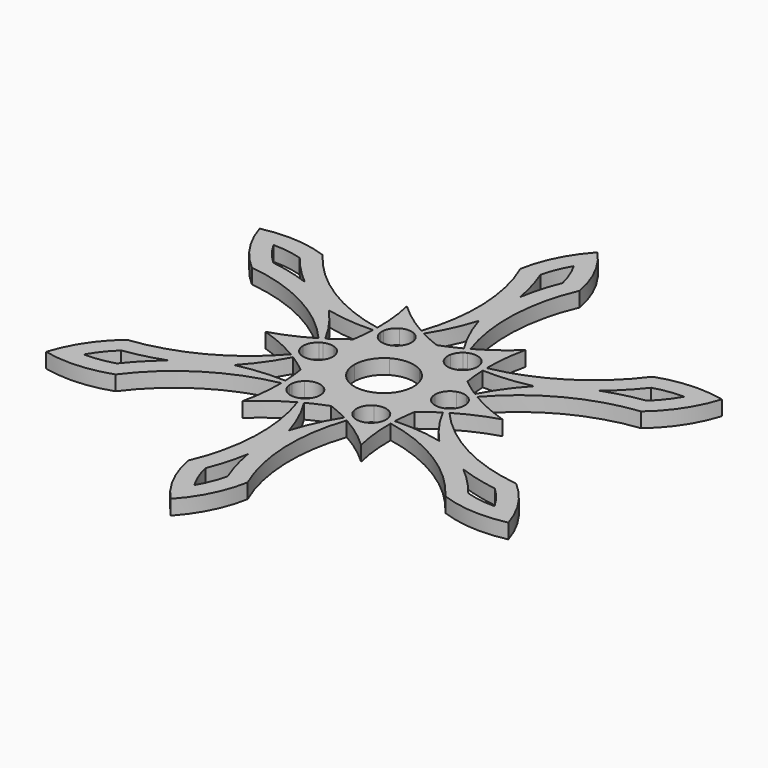
from build123d import *

# Parameters (mm, degrees)
F1_DEPTH = 3.175
F3_DEPTH = 3.175


with BuildPart() as f1:
    # F0 (on Top) → F1 (new body)
    with BuildSketch(Plane.XY):
        with BuildLine():
            ThreePointArc((-10.2140649004, 12.5831196538), (-9.715180625, 13.9663060969), (-8.646626422, 14.976396277))
            Line((-8.646626422, 14.976396277), (-12.7, 21.9970452561))
            ThreePointArc((-12.7, 21.9970452561), (-11.9265021264, 17.4508316529), (-11.7079259827, 12.8444684935))
            ThreePointArc((-11.7079259827, 12.8444684935), (-10.9622777482, 12.7064644527), (-10.2140649004, 12.5831196538))
        make_face()
        with BuildLine():
            Line((-12.7, 21.9970452561), (-8.646626422, 14.976396277))
            ThreePointArc((-8.646626422, 14.976396277), (-7.2375855644, 15.396746272), (-5.7902688288, 15.1371995066))
            ThreePointArc((-5.7902688288, 15.1371995066), (-5.5229821342, 15.8468432396), (-5.2696730221, 16.5615955734))
            ThreePointArc((-5.2696730221, 16.5615955734), (-9.1496124654, 19.0540696462), (-12.7, 21.9970452561))
        make_face()
        with BuildLine():
            ThreePointArc((-5.7902688288, 15.1371995066), (-5.4557175378, 14.967149708), (-5.1435682816, 14.7588126201))
            ThreePointArc((-5.1435682816, 14.7588126201), (-4.7136685053, 15.3927108565), (-4.2965982177, 16.035122848))
            ThreePointArc((-4.2965982177, 16.035122848), (-4.7850467183, 16.2948269447), (-5.2696730221, 16.5615955734))
            ThreePointArc((-5.2696730221, 16.5615955734), (-5.5229821342, 15.8468432396), (-5.7902688288, 15.1371995066))
        make_face()
        with BuildLine():
            ThreePointArc((-11.7385246304, 11.7385246304), (-10.9736443821, 11.7785120988), (-10.2097225179, 11.833867108))
            ThreePointArc((-10.2097225179, 11.833867108), (-10.2340731005, 12.2083648376), (-10.2140649004, 12.5831196538))
            ThreePointArc((-10.2140649004, 12.5831196538), (-10.9622777482, 12.7064644527), (-11.7079259827, 12.8444684935))
            ThreePointArc((-11.7079259827, 12.8444684935), (-11.7192107253, 12.2913854887), (-11.7385246304, 11.7385246304))
        make_face()
        with BuildLine():
            ThreePointArc((5.7902688288, 15.1371995066), (7.2375855644, 15.396746272), (8.646626422, 14.976396277))
            Line((8.646626422, 14.976396277), (12.7, 21.9970452561))
            ThreePointArc((12.7, 21.9970452561), (9.1496124654, 19.0540696462), (5.2696730221, 16.5615955734))
            ThreePointArc((5.2696730221, 16.5615955734), (5.5229821342, 15.8468432396), (5.7902688288, 15.1371995066))
        make_face()
        with BuildLine():
            Line((12.7, 21.9970452561), (8.646626422, 14.976396277))
            ThreePointArc((8.646626422, 14.976396277), (9.715180625, 13.9663060969), (10.2140649004, 12.5831196538))
            ThreePointArc((10.2140649004, 12.5831196538), (10.9622777482, 12.7064644527), (11.7079259827, 12.8444684935))
            ThreePointArc((11.7079259827, 12.8444684935), (11.9265021264, 17.4508316529), (12.7, 21.9970452561))
        make_face()
        with BuildLine():
            ThreePointArc((4.2965982177, 16.035122848), (4.7136685053, 15.3927108565), (5.1435682816, 14.7588126201))
            ThreePointArc((5.1435682816, 14.7588126201), (5.4557175378, 14.967149708), (5.7902688288, 15.1371995066))
            ThreePointArc((5.7902688288, 15.1371995066), (5.5229821342, 15.8468432396), (5.2696730221, 16.5615955734))
            ThreePointArc((5.2696730221, 16.5615955734), (4.7850467183, 16.2948269447), (4.2965982177, 16.035122848))
        make_face()
        with BuildLine():
            ThreePointArc((10.2140649004, 12.5831196538), (10.2340731005, 12.2083648376), (10.2097225179, 11.833867108))
            ThreePointArc((10.2097225179, 11.833867108), (10.9736443821, 11.7785120988), (11.7385246304, 11.7385246304))
            ThreePointArc((11.7385246304, 11.7385246304), (11.7192107253, 12.2913854887), (11.7079259827, 12.8444684935))
            ThreePointArc((11.7079259827, 12.8444684935), (10.9622777482, 12.7064644527), (10.2140649004, 12.5831196538))
        make_face()
        with BuildLine():
            ThreePointArc((-16.0043337292, -2.5540798528), (-16.9527661894, -1.4304401752), (-17.293252844, 0))
            Line((-17.293252844, 0), (-25.4, 0))
            ThreePointArc((-25.4, 0), (-21.0761145918, -1.6032379933), (-16.9775990048, -3.7171270799))
            ThreePointArc((-16.9775990048, -3.7171270799), (-16.4852598824, -3.1403787869), (-16.0043337292, -2.5540798528))
        make_face()
        with BuildLine():
            Line((-25.4, 0), (-17.293252844, 0))
            ThreePointArc((-17.293252844, 0), (-16.9527661894, 1.4304401752), (-16.0043337292, 2.5540798528))
            ThreePointArc((-16.0043337292, 2.5540798528), (-16.4852598824, 3.1403787869), (-16.9775990048, 3.7171270799))
            ThreePointArc((-16.9775990048, 3.7171270799), (-21.0761145918, 1.6032379933), (-25.4, 0))
        make_face()
        with BuildLine():
            ThreePointArc((-16.0043337292, 2.5540798528), (-15.6897906383, 2.7587848704), (-15.3532907995, 2.9249455121))
            ThreePointArc((-15.3532907995, 2.9249455121), (-15.6873128875, 3.6141987576), (-16.035122848, 4.2965982177))
            ThreePointArc((-16.035122848, 4.2965982177), (-16.5042574436, 4.003441456), (-16.9775990048, 3.7171270799))
            ThreePointArc((-16.9775990048, 3.7171270799), (-16.4852598824, 3.1403787869), (-16.0043337292, 2.5540798528))
        make_face()
        with BuildLine():
            ThreePointArc((-16.035122848, -4.2965982177), (-15.6873128875, -3.6141987576), (-15.3532907995, -2.9249455121))
            ThreePointArc((-15.3532907995, -2.9249455121), (-15.6897906383, -2.7587848704), (-16.0043337292, -2.5540798528))
            ThreePointArc((-16.0043337292, -2.5540798528), (-16.4852598824, -3.1403787869), (-16.9775990048, -3.7171270799))
            ThreePointArc((-16.9775990048, -3.7171270799), (-16.5042574436, -4.003441456), (-16.035122848, -4.2965982177))
        make_face()
        with BuildLine():
            ThreePointArc((-5.7902688288, -15.1371995066), (-7.2375855644, -15.396746272), (-8.646626422, -14.976396277))
            Line((-8.646626422, -14.976396277), (-12.7, -21.9970452561))
            ThreePointArc((-12.7, -21.9970452561), (-9.1496124654, -19.0540696462), (-5.2696730221, -16.5615955734))
            ThreePointArc((-5.2696730221, -16.5615955734), (-5.5229821342, -15.8468432396), (-5.7902688288, -15.1371995066))
        make_face()
        with BuildLine():
            Line((-12.7, -21.9970452561), (-8.646626422, -14.976396277))
            ThreePointArc((-8.646626422, -14.976396277), (-9.715180625, -13.9663060969), (-10.2140649004, -12.5831196538))
            ThreePointArc((-10.2140649004, -12.5831196538), (-10.9622777482, -12.7064644527), (-11.7079259827, -12.8444684935))
            ThreePointArc((-11.7079259827, -12.8444684935), (-11.9265021264, -17.4508316529), (-12.7, -21.9970452561))
        make_face()
        with BuildLine():
            ThreePointArc((-10.2140649004, -12.5831196538), (-10.2340731005, -12.2083648376), (-10.2097225179, -11.833867108))
            ThreePointArc((-10.2097225179, -11.833867108), (-10.9736443821, -11.7785120988), (-11.7385246304, -11.7385246304))
            ThreePointArc((-11.7385246304, -11.7385246304), (-11.7192107253, -12.2913854887), (-11.7079259827, -12.8444684935))
            ThreePointArc((-11.7079259827, -12.8444684935), (-10.9622777482, -12.7064644527), (-10.2140649004, -12.5831196538))
        make_face()
        with BuildLine():
            ThreePointArc((-4.2965982177, -16.035122848), (-4.7136685053, -15.3927108565), (-5.1435682816, -14.7588126201))
            ThreePointArc((-5.1435682816, -14.7588126201), (-5.4557175378, -14.967149708), (-5.7902688288, -15.1371995066))
            ThreePointArc((-5.7902688288, -15.1371995066), (-5.5229821342, -15.8468432396), (-5.2696730221, -16.5615955734))
            ThreePointArc((-5.2696730221, -16.5615955734), (-4.7850467183, -16.2948269447), (-4.2965982177, -16.035122848))
        make_face()
        with BuildLine():
            ThreePointArc((10.2140649004, -12.5831196538), (9.715180625, -13.9663060969), (8.646626422, -14.976396277))
            Line((8.646626422, -14.976396277), (12.7, -21.9970452561))
            ThreePointArc((12.7, -21.9970452561), (11.9265021264, -17.4508316529), (11.7079259827, -12.8444684935))
            ThreePointArc((11.7079259827, -12.8444684935), (10.9622777482, -12.7064644527), (10.2140649004, -12.5831196538))
        make_face()
        with BuildLine():
            Line((12.7, -21.9970452561), (8.646626422, -14.976396277))
            ThreePointArc((8.646626422, -14.976396277), (7.2375855644, -15.396746272), (5.7902688288, -15.1371995066))
            ThreePointArc((5.7902688288, -15.1371995066), (5.5229821342, -15.8468432396), (5.2696730221, -16.5615955734))
            ThreePointArc((5.2696730221, -16.5615955734), (9.1496124654, -19.0540696462), (12.7, -21.9970452561))
        make_face()
        with BuildLine():
            ThreePointArc((5.7902688288, -15.1371995066), (5.4557175378, -14.967149708), (5.1435682816, -14.7588126201))
            ThreePointArc((5.1435682816, -14.7588126201), (4.7136685053, -15.3927108565), (4.2965982177, -16.035122848))
            ThreePointArc((4.2965982177, -16.035122848), (4.7850467183, -16.2948269447), (5.2696730221, -16.5615955734))
            ThreePointArc((5.2696730221, -16.5615955734), (5.5229821342, -15.8468432396), (5.7902688288, -15.1371995066))
        make_face()
        with BuildLine():
            ThreePointArc((11.7385246304, -11.7385246304), (10.9736443821, -11.7785120988), (10.2097225179, -11.833867108))
            ThreePointArc((10.2097225179, -11.833867108), (10.2340731005, -12.2083648376), (10.2140649004, -12.5831196538))
            ThreePointArc((10.2140649004, -12.5831196538), (10.9622777482, -12.7064644527), (11.7079259827, -12.8444684935))
            ThreePointArc((11.7079259827, -12.8444684935), (11.7192107253, -12.2913854887), (11.7385246304, -11.7385246304))
        make_face()
        with BuildLine():
            ThreePointArc((16.0043337292, 2.5540798528), (16.9527661894, 1.4304401752), (17.293252844, 0))
            Line((17.293252844, 0), (25.4, 0))
            ThreePointArc((25.4, 0), (21.0761145918, 1.6032379933), (16.9775990048, 3.7171270799))
            ThreePointArc((16.9775990048, 3.7171270799), (16.4852598824, 3.1403787869), (16.0043337292, 2.5540798528))
        make_face()
        with BuildLine():
            Line((25.4, 0), (17.293252844, 0))
            ThreePointArc((17.293252844, 0), (16.9527661894, -1.4304401752), (16.0043337292, -2.5540798528))
            ThreePointArc((16.0043337292, -2.5540798528), (16.4852598824, -3.1403787869), (16.9775990048, -3.7171270799))
            ThreePointArc((16.9775990048, -3.7171270799), (21.0761145918, -1.6032379933), (25.4, 0))
        make_face()
        with BuildLine():
            ThreePointArc((16.0043337292, -2.5540798528), (15.6897906383, -2.7587848704), (15.3532907995, -2.9249455121))
            ThreePointArc((15.3532907995, -2.9249455121), (15.6873128875, -3.6141987576), (16.035122848, -4.2965982177))
            ThreePointArc((16.035122848, -4.2965982177), (16.5042574436, -4.003441456), (16.9775990048, -3.7171270799))
            ThreePointArc((16.9775990048, -3.7171270799), (16.4852598824, -3.1403787869), (16.0043337292, -2.5540798528))
        make_face()
        with BuildLine():
            ThreePointArc((16.035122848, 4.2965982177), (15.6873128875, 3.6141987576), (15.3532907995, 2.9249455121))
            ThreePointArc((15.3532907995, 2.9249455121), (15.6897906383, 2.7587848704), (16.0043337292, 2.5540798528))
            ThreePointArc((16.0043337292, 2.5540798528), (16.4852598824, 3.1403787869), (16.9775990048, 3.7171270799))
            ThreePointArc((16.9775990048, 3.7171270799), (16.5042574436, 4.003441456), (16.035122848, 4.2965982177))
        make_face()
        with BuildLine():
            ThreePointArc((-5.2696730221, 16.5615955734), (-4.7850467183, 16.2948269447), (-4.2965982177, 16.035122848))
            ThreePointArc((-4.2965982177, 16.035122848), (-1.8302678097, 20.5716489159), (0, 25.4))
            ThreePointArc((0, 25.4), (1.8302678097, 20.5716489159), (4.2965982177, 16.035122848))
            ThreePointArc((4.2965982177, 16.035122848), (4.7850467183, 16.2948269447), (5.2696730221, 16.5615955734))
            ThreePointArc((5.2696730221, 16.5615955734), (3.2039588931, 30.6067429626), (6.35, 44.45))
            Line((6.35, 44.45), (0, 44.45))
            Line((0, 44.45), (-6.35, 44.45))
            ThreePointArc((-6.35, 44.45), (-3.2039588931, 30.6067429626), (-5.2696730221, 16.5615955734))
        make_face()
        with BuildLine():
            ThreePointArc((-21.9970452561, 12.7), (-16.9004366541, 11.8708828769), (-11.7385246304, 11.7385246304))
            ThreePointArc((-11.7385246304, 11.7385246304), (-11.7192107253, 12.2913854887), (-11.7079259827, 12.8444684935))
            ThreePointArc((-11.7079259827, 12.8444684935), (-24.9042374862, 18.0780812755), (-35.3198291982, 27.724261314))
            Line((-35.3198291982, 27.724261314), (-38.4948291982, 22.225))
            Line((-38.4948291982, 22.225), (-41.6698291982, 16.725738686))
            ThreePointArc((-41.6698291982, 16.725738686), (-28.1081963793, 12.5286616872), (-16.9775990048, 3.7171270799))
            ThreePointArc((-16.9775990048, 3.7171270799), (-16.5042574436, 4.003441456), (-16.035122848, 4.2965982177))
            ThreePointArc((-16.035122848, 4.2965982177), (-18.7307044638, 8.700766039), (-21.9970452561, 12.7))
        make_face()
        with BuildLine():
            ThreePointArc((11.7079259827, 12.8444684935), (11.7192107253, 12.2913854887), (11.7385246304, 11.7385246304))
            ThreePointArc((11.7385246304, 11.7385246304), (16.9004366541, 11.8708828769), (21.9970452561, 12.7))
            ThreePointArc((21.9970452561, 12.7), (18.7307044638, 8.700766039), (16.035122848, 4.2965982177))
            ThreePointArc((16.035122848, 4.2965982177), (16.5042574436, 4.003441456), (16.9775990048, 3.7171270799))
            ThreePointArc((16.9775990048, 3.7171270799), (28.1081963793, 12.5286616872), (41.6698291982, 16.725738686))
            Line((41.6698291982, 16.725738686), (38.4948291982, 22.225))
            Line((38.4948291982, 22.225), (35.3198291982, 27.724261314))
            ThreePointArc((35.3198291982, 27.724261314), (24.9042374862, 18.0780812755), (11.7079259827, 12.8444684935))
        make_face()
        with BuildLine():
            ThreePointArc((-11.7079259827, -12.8444684935), (-11.7192107253, -12.2913854887), (-11.7385246304, -11.7385246304))
            ThreePointArc((-11.7385246304, -11.7385246304), (-16.9004366541, -11.8708828769), (-21.9970452561, -12.7))
            ThreePointArc((-21.9970452561, -12.7), (-18.7307044638, -8.700766039), (-16.035122848, -4.2965982177))
            ThreePointArc((-16.035122848, -4.2965982177), (-16.5042574436, -4.003441456), (-16.9775990048, -3.7171270799))
            ThreePointArc((-16.9775990048, -3.7171270799), (-28.1081963793, -12.5286616872), (-41.6698291982, -16.725738686))
            Line((-41.6698291982, -16.725738686), (-38.4948291982, -22.225))
            Line((-38.4948291982, -22.225), (-35.3198291982, -27.724261314))
            ThreePointArc((-35.3198291982, -27.724261314), (-24.9042374862, -18.0780812755), (-11.7079259827, -12.8444684935))
        make_face()
        with BuildLine():
            ThreePointArc((5.2696730221, -16.5615955734), (4.7850467183, -16.2948269447), (4.2965982177, -16.035122848))
            ThreePointArc((4.2965982177, -16.035122848), (1.8302678097, -20.5716489159), (0, -25.4))
            ThreePointArc((0, -25.4), (-1.8302678097, -20.5716489159), (-4.2965982177, -16.035122848))
            ThreePointArc((-4.2965982177, -16.035122848), (-4.7850467183, -16.2948269447), (-5.2696730221, -16.5615955734))
            ThreePointArc((-5.2696730221, -16.5615955734), (-3.2039588931, -30.6067429626), (-6.35, -44.45))
            Line((-6.35, -44.45), (0, -44.45))
            Line((0, -44.45), (6.35, -44.45))
            ThreePointArc((6.35, -44.45), (3.2039588931, -30.6067429626), (5.2696730221, -16.5615955734))
        make_face()
        with BuildLine():
            ThreePointArc((16.9775990048, -3.7171270799), (16.5042574436, -4.003441456), (16.035122848, -4.2965982177))
            ThreePointArc((16.035122848, -4.2965982177), (18.7307044638, -8.700766039), (21.9970452561, -12.7))
            ThreePointArc((21.9970452561, -12.7), (16.9004366541, -11.8708828769), (11.7385246304, -11.7385246304))
            ThreePointArc((11.7385246304, -11.7385246304), (11.7192107253, -12.2913854887), (11.7079259827, -12.8444684935))
            ThreePointArc((11.7079259827, -12.8444684935), (24.9042374862, -18.0780812755), (35.3198291982, -27.724261314))
            Line((35.3198291982, -27.724261314), (38.4948291982, -22.225))
            Line((38.4948291982, -22.225), (41.6698291982, -16.725738686))
            ThreePointArc((41.6698291982, -16.725738686), (28.1081963793, -12.5286616872), (16.9775990048, -3.7171270799))
        make_face()
        with BuildLine():
            Line((-38.4948291982, 22.225), (-35.3198291982, 27.724261314))
            ThreePointArc((-35.3198291982, 27.724261314), (-42.3459345639, 29.1601741653), (-49.4933518263, 28.575))
            Line((-49.4933518263, 28.575), (-38.4948291982, 22.225))
        make_face()
        with BuildLine():
            ThreePointArc((0, 57.15), (-4.080484324, 51.252742162), (-6.35, 44.45))
            Line((-6.35, 44.45), (0, 44.45))
            Line((0, 44.45), (0, 57.15))
        make_face()
        with BuildLine():
            Line((0, 44.45), (6.35, 44.45))
            ThreePointArc((6.35, 44.45), (4.080484324, 51.252742162), (0, 57.15))
            Line((0, 57.15), (0, 44.45))
        make_face()
        with BuildLine():
            ThreePointArc((-49.4933518263, 28.575), (-46.4264188879, 22.0925679967), (-41.6698291982, 16.725738686))
            Line((-41.6698291982, 16.725738686), (-38.4948291982, 22.225))
            Line((-38.4948291982, 22.225), (-49.4933518263, 28.575))
        make_face()
        with BuildLine():
            ThreePointArc((49.4933518263, 28.575), (42.3459345639, 29.1601741653), (35.3198291982, 27.724261314))
            Line((35.3198291982, 27.724261314), (38.4948291982, 22.225))
            Line((38.4948291982, 22.225), (49.4933518263, 28.575))
        make_face()
        with BuildLine():
            Line((38.4948291982, 22.225), (41.6698291982, 16.725738686))
            ThreePointArc((41.6698291982, 16.725738686), (46.4264188879, 22.0925679967), (49.4933518263, 28.575))
            Line((49.4933518263, 28.575), (38.4948291982, 22.225))
        make_face()
        with BuildLine():
            Line((-38.4948291982, -22.225), (-41.6698291982, -16.725738686))
            ThreePointArc((-41.6698291982, -16.725738686), (-46.4264188879, -22.0925679967), (-49.4933518263, -28.575))
            Line((-49.4933518263, -28.575), (-38.4948291982, -22.225))
        make_face()
        with BuildLine():
            ThreePointArc((-49.4933518263, -28.575), (-42.3459345639, -29.1601741653), (-35.3198291982, -27.724261314))
            Line((-35.3198291982, -27.724261314), (-38.4948291982, -22.225))
            Line((-38.4948291982, -22.225), (-49.4933518263, -28.575))
        make_face()
        with BuildLine():
            Line((0, -44.45), (-6.35, -44.45))
            ThreePointArc((-6.35, -44.45), (-4.080484324, -51.252742162), (0, -57.15))
            Line((0, -57.15), (0, -44.45))
        make_face()
        with BuildLine():
            ThreePointArc((0, -57.15), (4.080484324, -51.252742162), (6.35, -44.45))
            Line((6.35, -44.45), (0, -44.45))
            Line((0, -44.45), (0, -57.15))
        make_face()
        with BuildLine():
            Line((38.4948291982, -22.225), (35.3198291982, -27.724261314))
            ThreePointArc((35.3198291982, -27.724261314), (42.3459345639, -29.1601741653), (49.4933518263, -28.575))
            Line((49.4933518263, -28.575), (38.4948291982, -22.225))
        make_face()
        with BuildLine():
            ThreePointArc((49.4933518263, -28.575), (46.4264188879, -22.0925679967), (41.6698291982, -16.725738686))
            Line((41.6698291982, -16.725738686), (38.4948291982, -22.225))
            Line((38.4948291982, -22.225), (49.4933518263, -28.575))
        make_face()
        with BuildLine():
            ThreePointArc((-10.2097225179, -11.833867108), (-9.8725150433, -10.7552122008), (-9.1788539928, -9.863001667))
            ThreePointArc((-9.1788539928, -9.863001667), (-10.6646843006, -8.4196202704), (-12.22676562, -7.059126422))
            ThreePointArc((-12.22676562, -7.059126422), (-11.9103463833, -9.3912819901), (-11.7385246304, -11.7385246304))
            ThreePointArc((-11.7385246304, -11.7385246304), (-10.9736443821, -11.7785120988), (-10.2097225179, -11.833867108))
        make_face()
        with BuildLine():
            ThreePointArc((-12.22676562, -7.059126422), (-12.6239471947, -5.0260773925), (-13.1310369976, -3.0176199019))
            ThreePointArc((-13.1310369976, -3.0176199019), (-14.2505445107, -3.1722427264), (-15.3532907995, -2.9249455121))
            ThreePointArc((-15.3532907995, -2.9249455121), (-15.6873128875, -3.6141987576), (-16.035122848, -4.2965982177))
            ThreePointArc((-16.035122848, -4.2965982177), (-14.0882619692, -5.6190215408), (-12.22676562, -7.059126422))
        make_face()
        with BuildLine():
            ThreePointArc((-15.3532907995, 2.9249455121), (-14.2505445107, 3.1722427264), (-13.1310369976, 3.0176199019))
            ThreePointArc((-13.1310369976, 3.0176199019), (-12.6239471947, 5.0260773925), (-12.22676562, 7.059126422))
            ThreePointArc((-12.22676562, 7.059126422), (-14.0882619692, 5.6190215408), (-16.035122848, 4.2965982177))
            ThreePointArc((-16.035122848, 4.2965982177), (-15.6873128875, 3.6141987576), (-15.3532907995, 2.9249455121))
        make_face()
        with BuildLine():
            ThreePointArc((-12.22676562, 7.059126422), (-10.6646843006, 8.4196202704), (-9.1788539928, 9.863001667))
            ThreePointArc((-9.1788539928, 9.863001667), (-9.8725150433, 10.7552122008), (-10.2097225179, 11.833867108))
            ThreePointArc((-10.2097225179, 11.833867108), (-10.9736443821, 11.7785120988), (-11.7385246304, 11.7385246304))
            ThreePointArc((-11.7385246304, 11.7385246304), (-11.9103463833, 9.3912819901), (-12.22676562, 7.059126422))
        make_face()
        with BuildLine():
            ThreePointArc((0, -14.118252844), (-1.959262894, -13.4456976629), (-3.9521830048, -12.8806215689))
            ThreePointArc((-3.9521830048, -12.8806215689), (-4.3780294673, -13.9274549272), (-5.1435682816, -14.7588126201))
            ThreePointArc((-5.1435682816, -14.7588126201), (-4.7136685053, -15.3927108565), (-4.2965982177, -16.035122848))
            ThreePointArc((-4.2965982177, -16.035122848), (-2.1779155859, -15.0103035309), (0, -14.118252844))
        make_face()
        with BuildLine():
            ThreePointArc((5.1435682816, -14.7588126201), (4.3780294673, -13.9274549272), (3.9521830048, -12.8806215689))
            ThreePointArc((3.9521830048, -12.8806215689), (1.959262894, -13.4456976629), (0, -14.118252844))
            ThreePointArc((0, -14.118252844), (2.1779155859, -15.0103035309), (4.2965982177, -16.035122848))
            ThreePointArc((4.2965982177, -16.035122848), (4.7136685053, -15.3927108565), (5.1435682816, -14.7588126201))
        make_face()
        with BuildLine():
            ThreePointArc((12.22676562, -7.059126422), (10.6646843006, -8.4196202704), (9.1788539928, -9.863001667))
            ThreePointArc((9.1788539928, -9.863001667), (9.8725150433, -10.7552122008), (10.2097225179, -11.833867108))
            ThreePointArc((10.2097225179, -11.833867108), (10.9736443821, -11.7785120988), (11.7385246304, -11.7385246304))
            ThreePointArc((11.7385246304, -11.7385246304), (11.9103463833, -9.3912819901), (12.22676562, -7.059126422))
        make_face()
        with BuildLine():
            ThreePointArc((15.3532907995, -2.9249455121), (14.2505445107, -3.1722427264), (13.1310369976, -3.0176199019))
            ThreePointArc((13.1310369976, -3.0176199019), (12.6239471947, -5.0260773925), (12.22676562, -7.059126422))
            ThreePointArc((12.22676562, -7.059126422), (14.0882619692, -5.6190215408), (16.035122848, -4.2965982177))
            ThreePointArc((16.035122848, -4.2965982177), (15.6873128875, -3.6141987576), (15.3532907995, -2.9249455121))
        make_face()
        with BuildLine():
            ThreePointArc((12.22676562, 7.059126422), (12.6239471947, 5.0260773925), (13.1310369976, 3.0176199019))
            ThreePointArc((13.1310369976, 3.0176199019), (14.2505445107, 3.1722427264), (15.3532907995, 2.9249455121))
            ThreePointArc((15.3532907995, 2.9249455121), (15.6873128875, 3.6141987576), (16.035122848, 4.2965982177))
            ThreePointArc((16.035122848, 4.2965982177), (14.0882619692, 5.6190215408), (12.22676562, 7.059126422))
        make_face()
        with BuildLine():
            ThreePointArc((10.2097225179, 11.833867108), (9.8725150433, 10.7552122008), (9.1788539928, 9.863001667))
            ThreePointArc((9.1788539928, 9.863001667), (10.6646843006, 8.4196202704), (12.22676562, 7.059126422))
            ThreePointArc((12.22676562, 7.059126422), (11.9103463833, 9.3912819901), (11.7385246304, 11.7385246304))
            ThreePointArc((11.7385246304, 11.7385246304), (10.9736443821, 11.7785120988), (10.2097225179, 11.833867108))
        make_face()
        with BuildLine():
            ThreePointArc((0, 14.118252844), (1.959262894, 13.4456976629), (3.9521830048, 12.8806215689))
            ThreePointArc((3.9521830048, 12.8806215689), (4.3780294673, 13.9274549272), (5.1435682816, 14.7588126201))
            ThreePointArc((5.1435682816, 14.7588126201), (4.7136685053, 15.3927108565), (4.2965982177, 16.035122848))
            ThreePointArc((4.2965982177, 16.035122848), (2.1779155859, 15.0103035309), (0, 14.118252844))
        make_face()
        with BuildLine():
            ThreePointArc((-5.1435682816, 14.7588126201), (-4.3780294673, 13.9274549272), (-3.9521830048, 12.8806215689))
            ThreePointArc((-3.9521830048, 12.8806215689), (-1.959262894, 13.4456976629), (0, 14.118252844))
            ThreePointArc((0, 14.118252844), (-2.1779155859, 15.0103035309), (-4.2965982177, 16.035122848))
            ThreePointArc((-4.2965982177, 16.035122848), (-4.7136685053, 15.3927108565), (-5.1435682816, 14.7588126201))
        make_face()
        with BuildLine():
            ThreePointArc((3.175, -5.499261314), (0, -6.35), (-3.175, -5.499261314))
            Line((-3.175, -5.499261314), (-5.471626422, -9.477134963))
            ThreePointArc((-5.471626422, -9.477134963), (-4.1599230799, -10.9324530683), (-3.9521830048, -12.8806215689))
            ThreePointArc((-3.9521830048, -12.8806215689), (-1.959262894, -13.4456976629), (0, -14.118252844))
            ThreePointArc((0, -14.118252844), (1.959262894, -13.4456976629), (3.9521830048, -12.8806215689))
            ThreePointArc((3.9521830048, -12.8806215689), (4.1599230799, -10.9324530683), (5.471626422, -9.477134963))
            Line((5.471626422, -9.477134963), (3.175, -5.499261314))
        make_face()
        with BuildLine():
            ThreePointArc((6.35, 0), (5.499261314, -3.175), (3.175, -5.499261314))
            Line((3.175, -5.499261314), (5.471626422, -9.477134963))
            ThreePointArc((5.471626422, -9.477134963), (7.3878205429, -9.0688255992), (9.1788539928, -9.863001667))
            ThreePointArc((9.1788539928, -9.863001667), (10.6646843006, -8.4196202704), (12.22676562, -7.059126422))
            ThreePointArc((12.22676562, -7.059126422), (12.6239471947, -5.0260773925), (13.1310369976, -3.0176199019))
            ThreePointArc((13.1310369976, -3.0176199019), (11.5477436228, -1.8636274692), (10.943252844, 0))
            Line((10.943252844, 0), (6.35, 0))
        make_face()
        with BuildLine():
            Line((5.471626422, 9.477134963), (3.175, 5.499261314))
            ThreePointArc((3.175, 5.499261314), (5.499261314, 3.175), (6.35, 0))
            Line((6.35, 0), (10.943252844, 0))
            ThreePointArc((10.943252844, 0), (11.5477436228, 1.8636274692), (13.1310369976, 3.0176199019))
            ThreePointArc((13.1310369976, 3.0176199019), (12.6239471947, 5.0260773925), (12.22676562, 7.059126422))
            ThreePointArc((12.22676562, 7.059126422), (10.6646843006, 8.4196202704), (9.1788539928, 9.863001667))
            ThreePointArc((9.1788539928, 9.863001667), (7.3878205429, 9.0688255992), (5.471626422, 9.477134963))
        make_face()
        with BuildLine():
            Line((-5.471626422, 9.477134963), (-3.175, 5.499261314))
            ThreePointArc((-3.175, 5.499261314), (0, 6.35), (3.175, 5.499261314))
            Line((3.175, 5.499261314), (5.471626422, 9.477134963))
            ThreePointArc((5.471626422, 9.477134963), (4.1599230799, 10.9324530683), (3.9521830048, 12.8806215689))
            ThreePointArc((3.9521830048, 12.8806215689), (1.959262894, 13.4456976629), (0, 14.118252844))
            ThreePointArc((0, 14.118252844), (-1.959262894, 13.4456976629), (-3.9521830048, 12.8806215689))
            ThreePointArc((-3.9521830048, 12.8806215689), (-4.1599230799, 10.9324530683), (-5.471626422, 9.477134963))
        make_face()
        with BuildLine():
            ThreePointArc((-6.35, 0), (-5.499261314, 3.175), (-3.175, 5.499261314))
            Line((-3.175, 5.499261314), (-5.471626422, 9.477134963))
            ThreePointArc((-5.471626422, 9.477134963), (-7.3878205429, 9.0688255992), (-9.1788539928, 9.863001667))
            ThreePointArc((-9.1788539928, 9.863001667), (-10.6646843006, 8.4196202704), (-12.22676562, 7.059126422))
            ThreePointArc((-12.22676562, 7.059126422), (-12.6239471947, 5.0260773925), (-13.1310369976, 3.0176199019))
            ThreePointArc((-13.1310369976, 3.0176199019), (-11.5477436228, 1.8636274692), (-10.943252844, 0))
            Line((-10.943252844, 0), (-6.35, 0))
        make_face()
        with BuildLine():
            ThreePointArc((-3.175, -5.499261314), (-5.499261314, -3.175), (-6.35, 0))
            Line((-6.35, 0), (-10.943252844, 0))
            ThreePointArc((-10.943252844, 0), (-11.5477436228, -1.8636274692), (-13.1310369976, -3.0176199019))
            ThreePointArc((-13.1310369976, -3.0176199019), (-12.6239471947, -5.0260773925), (-12.22676562, -7.059126422))
            ThreePointArc((-12.22676562, -7.059126422), (-10.6646843006, -8.4196202704), (-9.1788539928, -9.863001667))
            ThreePointArc((-9.1788539928, -9.863001667), (-7.3878205429, -9.0688255992), (-5.471626422, -9.477134963))
            Line((-5.471626422, -9.477134963), (-3.175, -5.499261314))
        make_face()
    extrude(amount=F1_DEPTH)

    # F2 (on face) → F3 (cut)
    with BuildSketch(Plane.XY.offset(3.175)):
        with BuildLine():
            ThreePointArc((43.986263378, 25.3954810019), (40.773739565, 25.1729537897), (37.6300480937, 24.4750773376))
            ThreePointArc((37.6300480937, 24.4750773376), (34.7493627734, 21.1871944882), (31.5458272103, 18.2129918317))
            ThreePointArc((31.5458272103, 18.2129918317), (35.7233300484, 19.500233683), (40.0110627808, 20.3510389259))
            ThreePointArc((40.0110627808, 20.3510389259), (42.1872872527, 22.7246173757), (43.986263378, 25.3954810019))
        make_face()
        with BuildLine():
            ThreePointArc((43.986263378, -25.3954810019), (42.1872872527, -22.7246173757), (40.0110627808, -20.3510389259))
            ThreePointArc((40.0110627808, -20.3510389259), (35.7233300484, -19.500233683), (31.5458272103, -18.2129918317))
            ThreePointArc((31.5458272103, -18.2129918317), (34.7493627734, -21.1871944882), (37.6300480937, -24.4750773376))
            ThreePointArc((37.6300480937, -24.4750773376), (40.773739565, -25.1729537897), (43.986263378, -25.3954810019))
        make_face()
        with BuildLine():
            ThreePointArc((0, 36.4259836634), (0.973967275, 40.6874281712), (2.3810146872, 44.8261162636))
            ThreePointArc((2.3810146872, 44.8261162636), (1.4135476877, 47.8975711654), (0, 50.7909620038))
            ThreePointArc((0, 50.7909620038), (-1.4135476877, 47.8975711654), (-2.3810146872, 44.8261162636))
            ThreePointArc((-2.3810146872, 44.8261162636), (-0.973967275, 40.6874281712), (0, 36.4259836634))
        make_face()
        with BuildLine():
            ThreePointArc((-43.986263378, 25.3954810019), (-42.1872872527, 22.7246173757), (-40.0110627808, 20.3510389259))
            ThreePointArc((-40.0110627808, 20.3510389259), (-35.7233300484, 19.500233683), (-31.5458272103, 18.2129918317))
            ThreePointArc((-31.5458272103, 18.2129918317), (-34.7493627734, 21.1871944882), (-37.6300480937, 24.4750773376))
            ThreePointArc((-37.6300480937, 24.4750773376), (-40.773739565, 25.1729537897), (-43.986263378, 25.3954810019))
        make_face()
        with BuildLine():
            ThreePointArc((-31.5458272103, -18.2129918317), (-35.7233300484, -19.500233683), (-40.0110627808, -20.3510389259))
            ThreePointArc((-40.0110627808, -20.3510389259), (-42.1872872527, -22.7246173757), (-43.986263378, -25.3954810019))
            ThreePointArc((-43.986263378, -25.3954810019), (-40.773739565, -25.1729537897), (-37.6300480937, -24.4750773376))
            ThreePointArc((-37.6300480937, -24.4750773376), (-34.7493627734, -21.1871944882), (-31.5458272103, -18.2129918317))
        make_face()
        with BuildLine():
            ThreePointArc((0, -36.4259836634), (-0.973967275, -40.6874281712), (-2.3810146872, -44.8261162636))
            ThreePointArc((-2.3810146872, -44.8261162636), (-1.4135476877, -47.8975711654), (0, -50.7909620038))
            ThreePointArc((0, -50.7909620038), (1.4135476877, -47.8975711654), (2.3810146872, -44.8261162636))
            ThreePointArc((2.3810146872, -44.8261162636), (0.973967275, -40.6874281712), (0, -36.4259836634))
        make_face()
    extrude(amount=-F3_DEPTH, mode=Mode.SUBTRACT)


solid = f1.part
